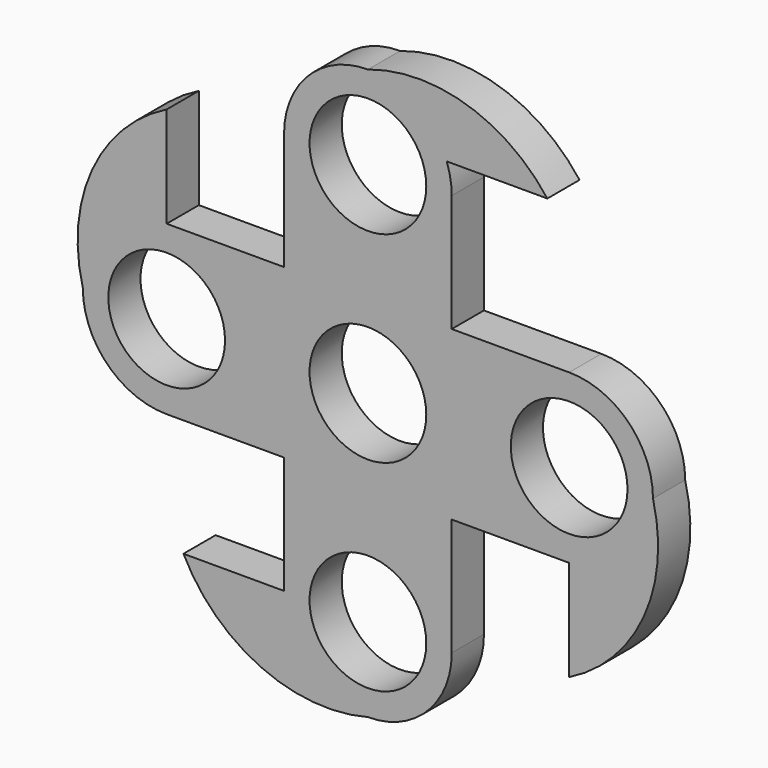
from build123d import *

# Parameters (mm, degrees)
F0_R     = 11.049
F1_DEPTH = 7.62


with BuildPart() as f1:
    # F0 (on Front) → F1 (new body)
    with BuildSketch(Plane.XZ):
        with BuildLine():
            ThreePointArc((-15.875, 38.1), (0, 22.225), (15.875, 38.1))
            ThreePointArc((15.875, 38.1), (15.6354978717, 40.8471496693), (14.9242181032, 43.5114082277))
            ThreePointArc((14.9242181032, 43.5114082277), (9.1134384122, 51.0984947324), (0, 53.975))
            ThreePointArc((0, 53.975), (-11.2253201513, 49.3253201513), (-15.875, 38.1))
        make_face()
        with Locations((0, 38.1)):
            Circle(F0_R, mode=Mode.SUBTRACT)
        with BuildLine():
            Line((15.875, 15.875), (15.875, 38.1))
            ThreePointArc((15.875, 38.1), (0, 22.225), (-15.875, 38.1))
            Line((-15.875, 38.1), (-15.875, 15.875))
            Line((-15.875, 15.875), (0, 15.875))
            Line((0, 15.875), (15.875, 15.875))
        make_face()
        with BuildLine():
            ThreePointArc((0, 53.975), (9.1134384122, 51.0984947324), (14.9242181032, 43.5114082277))
            Line((14.9242181032, 43.5114082277), (33.9742181032, 43.5114082277))
            ThreePointArc((33.9742181032, 43.5114082277), (18.6705146797, 54.2090509483), (0, 53.975))
        make_face()
        with BuildLine():
            Line((38.1, 15.875), (15.875, 15.875))
            Line((15.875, 15.875), (15.875, 12.7))
            Line((15.875, 12.7), (15.875, 0))
            Line((15.875, 0), (15.875, -15.875))
            Line((15.875, -15.875), (38.1, -15.875))
            ThreePointArc((38.1, -15.875), (22.225, 0), (38.1, 15.875))
        make_face()
        Polygon((15.875, 12.7), (15.875, 15.875), (0, 15.875), (-15.875, 15.875), (-15.875, 0), (-15.875, -15.875), (0, -15.875), (15.875, -15.875), (15.875, 0), align=None)
        Circle(F0_R, mode=Mode.SUBTRACT)
        with BuildLine():
            Line((-15.875, 0), (-15.875, 15.875))
            Line((-15.875, 15.875), (-38.1, 15.875))
            ThreePointArc((-38.1, 15.875), (-26.8746798487, 11.2253201513), (-22.225, 0))
            ThreePointArc((-22.225, 0), (-26.8746798487, -11.2253201513), (-38.1, -15.875))
            Line((-38.1, -15.875), (-15.875, -15.875))
            Line((-15.875, -15.875), (-15.875, 0))
        make_face()
        with BuildLine():
            ThreePointArc((53.975, 0), (49.3253201513, 11.2253201513), (38.1, 15.875))
            ThreePointArc((38.1, 15.875), (22.225, 0), (38.1, -15.875))
            ThreePointArc((38.1, -15.875), (49.3253201513, -11.2253201513), (53.975, 0))
        make_face()
        with Locations((38.1, 0)):
            Circle(F0_R, mode=Mode.SUBTRACT)
        with BuildLine():
            ThreePointArc((-22.225, 0), (-26.8746798487, 11.2253201513), (-38.1, 15.875))
            ThreePointArc((-38.1, 15.875), (-49.3253201513, 11.2253201513), (-53.975, 0))
            ThreePointArc((-53.975, 0), (-49.3253201513, -11.2253201513), (-38.1, -15.875))
            ThreePointArc((-38.1, -15.875), (-26.8746798487, -11.2253201513), (-22.225, 0))
        make_face()
        with Locations((-38.1, 0)):
            Circle(F0_R, mode=Mode.SUBTRACT)
        with BuildLine():
            ThreePointArc((-53.975, 0), (-49.3253201513, 11.2253201513), (-38.1, 15.875))
            Line((-38.1, 15.875), (-38.1, 34.925))
            ThreePointArc((-38.1, 34.925), (-52.2213577819, 20.2733444463), (-53.975, 0))
        make_face()
        with BuildLine():
            ThreePointArc((38.1, -34.925), (52.2213577819, -20.2733444463), (53.975, 0))
            ThreePointArc((53.975, 0), (49.3253201513, -11.2253201513), (38.1, -15.875))
            Line((38.1, -15.875), (38.1, -34.925))
        make_face()
        with BuildLine():
            Line((0, -15.875), (-15.875, -15.875))
            Line((-15.875, -15.875), (-15.875, -38.1))
            ThreePointArc((-15.875, -38.1), (0, -22.225), (15.875, -38.1))
            Line((15.875, -38.1), (15.875, -15.875))
            Line((15.875, -15.875), (0, -15.875))
        make_face()
        with BuildLine():
            ThreePointArc((15.875, -38.1), (0, -22.225), (-15.875, -38.1))
            ThreePointArc((-15.875, -38.1), (-11.2253201513, -49.3253201513), (0, -53.975))
            ThreePointArc((0, -53.975), (11.2253201513, -49.3253201513), (15.875, -38.1))
        make_face()
        with Locations((0, -38.1)):
            Circle(F0_R, mode=Mode.SUBTRACT)
        with BuildLine():
            ThreePointArc((0, -53.975), (-11.2253201513, -49.3253201513), (-15.875, -38.1))
            Line((-15.875, -38.1), (-34.925, -38.1))
            ThreePointArc((-34.925, -38.1), (-20.2733444463, -52.2213577819), (0, -53.975))
        make_face()
    extrude(amount=F1_DEPTH)


solid = f1.part
